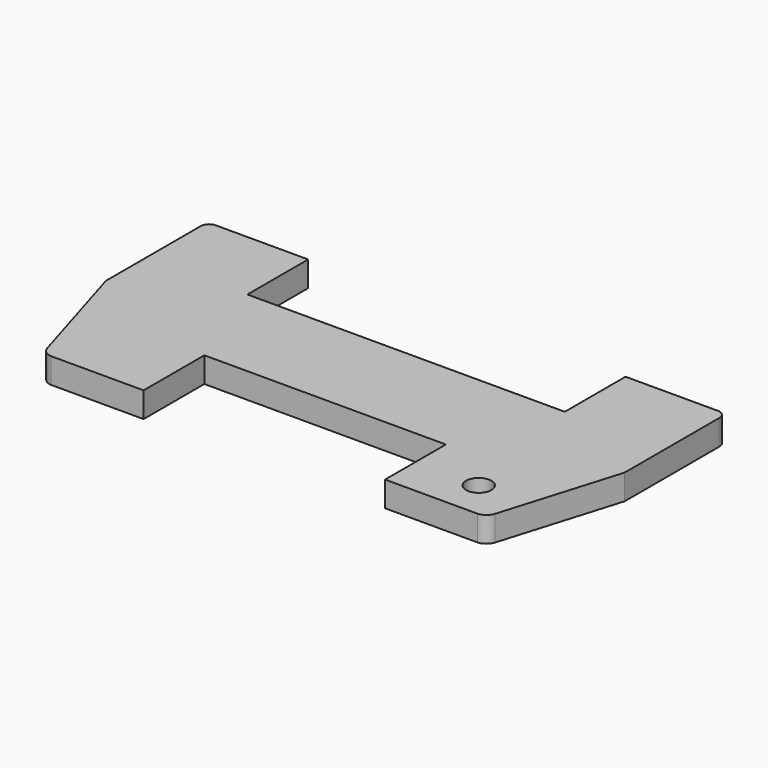
from build123d import *

# Parameters (mm, degrees)
F0_R     = 3.175
F1_DEPTH = 6.35


with BuildPart() as f1:
    # F0 (on Top) → F1 (new body)
    with BuildSketch(Plane.XY):
        with BuildLine():
            Line((39.8145, 12.7), (0, 12.7))
            Line((0, 12.7), (-39.8145, 12.7))
            Line((-39.8145, 12.7), (-39.8145, 31.75))
            Line((-39.8145, 31.75), (-62.96914, 31.75))
            ThreePointArc((-62.96914, 31.75), (-64.550414, 31.045236), (-65.083471, 29.398126))
            Line((-65.083471, 29.398126), (-65.083471, -0.106514))
            Line((-65.083471, -0.106514), (-56.196699, -29.59399))
            ThreePointArc((-56.196699, -29.59399), (-55.189961, -31.08737), (-53.51526, -31.75))
            Line((-53.51526, -31.75), (-30.2895, -31.75))
            Line((-30.2895, -31.75), (-30.2895, -12.7))
            Line((-30.2895, -12.7), (0, -12.7))
            Line((0, -12.7), (30.2895, -12.7))
            Line((30.2895, -12.7), (30.2895, -31.75))
            Line((30.2895, -31.75), (53.51526, -31.75))
            ThreePointArc((53.51526, -31.75), (55.189961, -31.08737), (56.196699, -29.59399))
            Line((56.196699, -29.59399), (65.083471, -0.106514))
            Line((65.083471, -0.106514), (65.083471, 29.398126))
            ThreePointArc((65.083471, 29.398126), (64.550414, 31.045236), (62.96914, 31.75))
            Line((62.96914, 31.75), (39.8145, 31.75))
            Line((39.8145, 31.75), (39.8145, 12.7))
        make_face()
        with Locations((46.1645, -22.225)):
            Circle(F0_R, mode=Mode.SUBTRACT)
    extrude(amount=F1_DEPTH)


solid = f1.part
